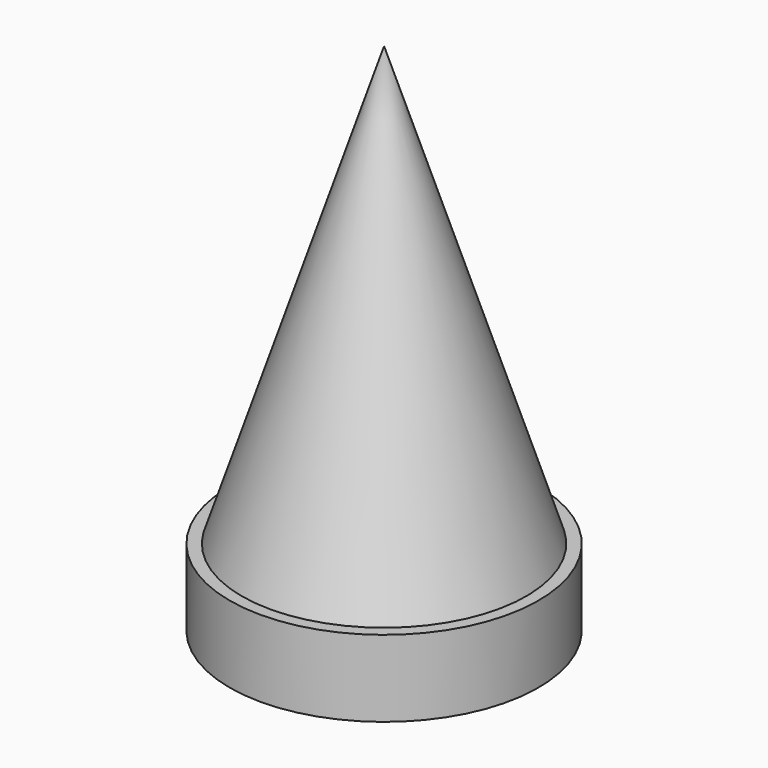
from build123d import *


with BuildPart() as f1:
    # F0 (on Right) → F1 (revolve)
    with BuildSketch(Plane.YZ):
        Polygon((0, 0), (0, 50.8), (-16.51, 0), align=None)
        Polygon((0, -8.89), (0, 0), (-16.51, 0), (-17.907, 0), (-17.907, -8.89), align=None)
    revolve(axis=Axis((0, 0, 25.4), (0, 0, -1)))


solid = f1.part
